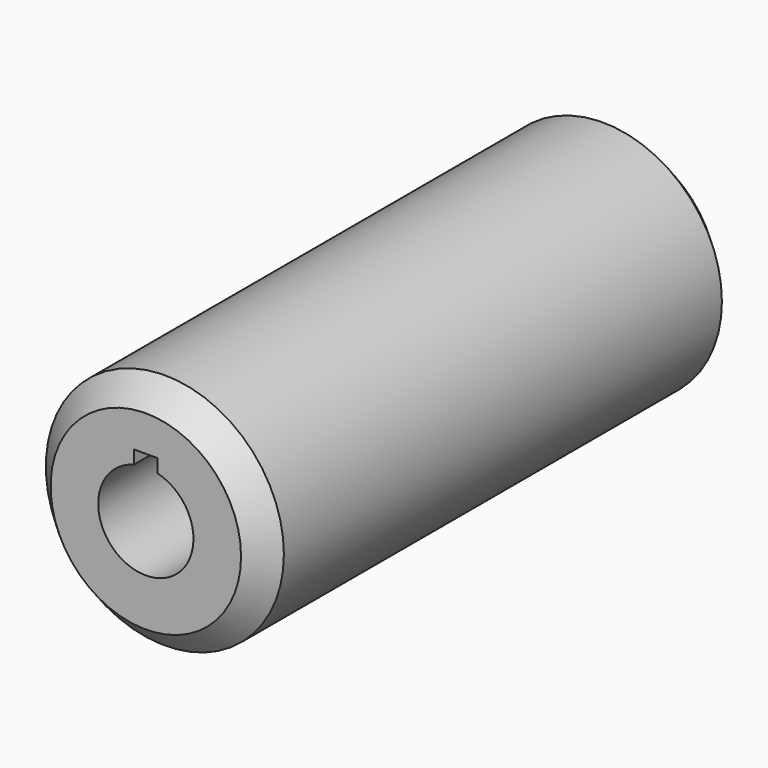
from build123d import *

# Parameters (mm, degrees)
F0_R     = 10
F1_DEPTH = 50
F2_SIZE  = 2
F4_DEPTH = 50


with BuildPart() as f1:
    # F0 (on Front) → F1 (new body)
    with BuildSketch(Plane.XZ):
        Circle(F0_R)
    extrude(amount=-F1_DEPTH)

    # F2
    f2_edges = [f1.edges().sort_by_distance(p)[0] for p in [
        (-10, 50, 0),
        (-10, 0, 0),
    ]]
    chamfer(f2_edges, length=F2_SIZE)

    # F3 (on face) → F4 (cut, through all)
    with BuildSketch(Plane(origin=(0, 50, 0), x_dir=(-1, 0, 0), z_dir=(0, 1, 0))):
        with BuildLine():
            Line((-1, 5), (-1, 3.872983))
            ThreePointArc((-1, 3.872983), (0, -4), (1, 3.872983))
            Line((1, 3.872983), (1, 5))
            Line((1, 5), (-1, 5))
        make_face()
    extrude(amount=-F4_DEPTH, mode=Mode.SUBTRACT)


solid = f1.part
